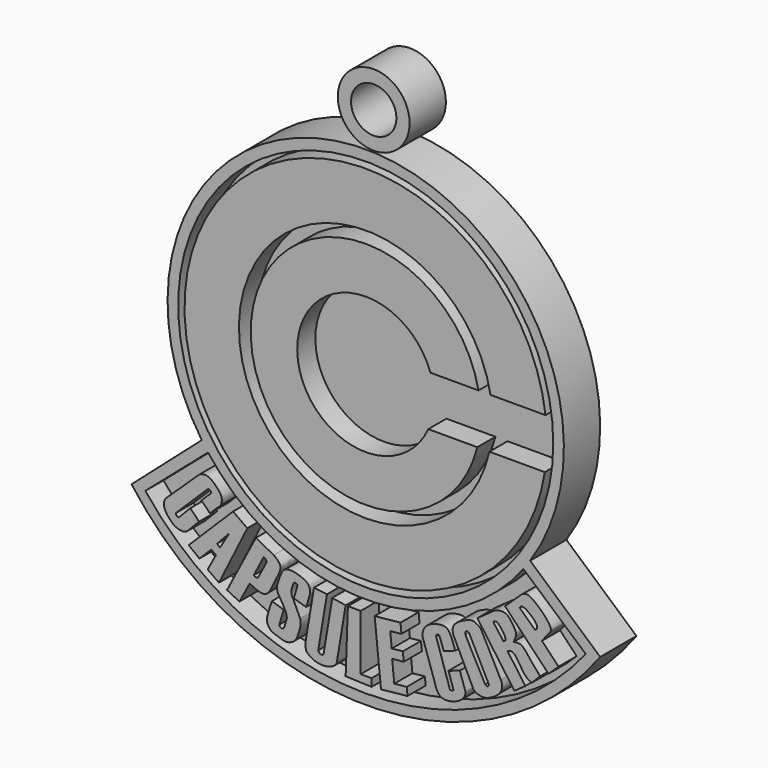
from build123d import *

# Parameters (mm, degrees)
F0_R      = 52.503356938
F1_DEPTH  = 12.7
F2_DEPTH  = 12.7
F3_DEPTH  = 12.7
F4_DEPTH  = 12.7
F5_DEPTH  = 12.7
F6_DEPTH  = 12.7
F7_DEPTH  = 12.7
F8_DEPTH  = 12.7
F9_DEPTH  = 12.7
F10_DEPTH = 12.7
F11_DEPTH = 12.7
F12_DEPTH = 12.7
F13_DEPTH = 6.35
F14_DEPTH = 6.35
F15_DEPTH = 6.35
F17_DEPTH = 6.35
F18_R     = 10.0525320169
F18_R_2   = 6.3473364892
F19_DEPTH = 12.7


with BuildPart() as f1:
    # F0 (on Front) → F1 (new body)
    with BuildSketch(Plane.XZ):
        with BuildLine():
            Line((60.5999405823, -41.43121412), (40.9883677357, -24.0908212584))
            ThreePointArc((40.9883677357, -24.0908212584), (-5.1478357773, 62.3429549862), (-50.9438924463, -24.2715250046))
            Line((-50.9438924463, -24.2715250046), (-70.5983656979, -41.5386197523))
            ThreePointArc((-70.5983656979, -41.5386197523), (-4.9720826963, -74.6246303532), (60.5999405823, -41.43121412))
        make_face()
        with BuildLine():
            Line((-66.734063861, -41.905019687), (-49.1712145373, -26.736498157))
            ThreePointArc((-49.1712145373, -26.736498157), (-5.0426226132, -48.6008861319), (39.0889828621, -26.7425814195))
            Line((39.0889828621, -26.7425814195), (56.5566623342, -42.0309924074))
            ThreePointArc((56.5566623342, -42.0309924074), (-5.1191574652, -71.7762762421), (-66.734063861, -41.905019687))
        make_face(mode=Mode.SUBTRACT)
        with Locations((-5.0387992524, 6.8710879423)):
            Circle(F0_R, mode=Mode.SUBTRACT)
    extrude(amount=F1_DEPTH)


with BuildPart() as f2:
    # F0 (on Front) → F2 (new body)
    with BuildSketch(Plane.XZ):
        with BuildLine():
            Line((29.8900014684, 13.1683601066), (45.2995682776, 13.1683601066))
            ThreePointArc((45.2995682776, 13.1683601066), (-55.7638517812, 7.6299873016), (45.0886533141, -0.9292570176))
            Line((45.0886533141, -0.9292570176), (29.5853451416, -0.9292570176))
            ThreePointArc((29.5853451416, -0.9292570176), (-40.5224397882, 7.6379065822), (29.8900014684, 13.1683601066))
        make_face()
    extrude(amount=F2_DEPTH)


with BuildPart() as f3:
    # F0 (on Front) → F3 (new body)
    with BuildSketch(Plane.XZ):
        with BuildLine():
            ThreePointArc((12.4785372816, -0.9292570176), (-24.1973281339, 7.6793155292), (13.0732636899, 13.1683601066))
            Line((13.0732636899, 13.1683601066), (26.5351332798, 13.1683601066))
            ThreePointArc((26.5351332798, 13.1683601066), (-37.2253739751, 7.6413215952), (26.1977733952, -0.9292570176))
            Line((26.1977733952, -0.9292570176), (12.4785372816, -0.9292570176))
        make_face()
    extrude(amount=F3_DEPTH)


with BuildPart() as f3b:
    # F0 (on Front) → F3, piece 2 (new body)
    with BuildSketch(Plane.XZ):
        with BuildLine():
            Line((-48.6598946154, -41.5569245815), (-45.7314327359, -38.7076102197))
            add(Edge.make_bspline(
                [(-45.7314327359, -38.7076102197), (-45.5182782316, -38.3120082619), (-45.2493718827, -37.4668796013), (-45.3800152306, -36.1746325624), (-46.4852057666, -34.7051412126), (-47.9762372557, -33.2938342389), (-49.0977703681, -32.6046361502), (-50.4863207535, -32.4418212905), (-51.5891727531, -32.889454716), (-51.6675077379, -33.0089814961)],
                knots=[0, 0, 0, 0, 0.1309702609, 0.2573921233, 0.4120143837, 0.5768783375, 0.7062820353, 0.8445564685, 0.9677742674, 0.9677742674, 0.9677742674, 0.9677742674], degree=3))
            Line((-51.6675077379, -33.0089814961), (-60.7157088816, -41.6073575616))
            add(Edge.make_bspline(
                [(-60.7157088816, -41.6073575616), (-60.9724898646, -41.899599987), (-61.5177114103, -42.520650489), (-61.5965015573, -44.1305906441), (-60.7583461715, -45.6946842576), (-59.7998466196, -46.8042676371), (-58.5532261802, -48.045258872), (-56.2489889811, -48.6719660133), (-55.5259696379, -48.2643659842), (-55.0567097962, -48.0595976114)],
                knots=[0, 0, 0, 0, 0.1228178596, 0.2624150968, 0.4125308313, 0.5497962329, 0.7010782632, 0.8693855299, 1, 1, 1, 1], degree=3))
            Line((-55.0567097962, -48.0595976114), (-51.6791455448, -44.5893704891))
            Line((-51.6791455448, -44.5893704891), (-54.1442027534, -42.0839010235))
            Line((-54.1442027534, -42.0839010235), (-57.3124613844, -45.3390802631))
            add(Edge.make_bspline(
                [(-57.3124613844, -45.3390802631), (-57.6732350377, -45.5940075315), (-58.3938894889, -44.8760026589), (-58.1320589799, -44.5277169056)],
                knots=[0, 0, 0, 0, 1.1532782477, 1.1532782477, 1.1532782477, 1.1532782477], degree=3))
            Line((-58.1320589799, -44.5277169056), (-49.2998375437, -35.8386252598))
            add(Edge.make_bspline(
                [(-48.4176556757, -36.6089562428), (-48.0805915421, -35.8402226582), (-49.1739178016, -35.5147337638), (-49.2998375437, -35.8386252598)],
                knots=[0, 0, 0, 0, 1.1711766184, 1.1711766184, 1.1711766184, 1.1711766184], degree=3))
            Line((-48.4176556757, -36.6089562428), (-51.0151487078, -39.1362468498))
            Line((-51.0151487078, -39.1362468498), (-48.6598946154, -41.5569245815))
        make_face()
    extrude(amount=F3_DEPTH)


with BuildPart() as f4:
    # F0 (on Front) → F4 (new body)
    with BuildSketch(Plane.XZ):
        with BuildLine():
            Line((-35.7905649427, -43.4279856762), (-43.8651628792, -58.9153282344))
            Line((-43.8651628792, -58.9153282344), (-40.3925254941, -60.6311187148))
            Line((-40.3925254941, -60.6311187148), (-37.5058762729, -55.227637291))
            add(Edge.make_bspline(
                [(-31.6514000297, -54.8285953701), (-32.0236780299, -55.43014729), (-32.8165623045, -56.6676508711), (-35.1249112591, -56.497323709), (-36.7467890913, -55.5591372638), (-37.5058762729, -55.227637291)],
                knots=[0, 0, 0, 0, 0.3149504858, 0.6330767902, 1, 1, 1, 1], degree=3))
            Line((-31.6514000297, -54.8285953701), (-29.5922830701, -50.6417267025))
            add(Edge.make_bspline(
                [(-30.7893350019, -46.0354647068), (-30.4348577002, -46.3079643887), (-29.6930274584, -46.8782364594), (-28.5146698632, -48.3895821803), (-29.2125097058, -49.8480240116), (-29.5922830701, -50.6417267025)],
                knots=[0, 0, 0, 0, 0.2943351831, 0.6159681847, 1, 1, 1, 1], degree=3))
            Line((-30.7893350019, -46.0354647068), (-35.7905649427, -43.4279856762))
        make_face()
        with BuildLine():
            Line((-36.3851310301, -52.8450786716), (-33.6069231472, -47.4374296016))
            add(Edge.make_bspline(
                [(-33.6069231472, -47.4374296016), (-33.1515918708, -47.3266571752), (-32.4997992591, -48.5392787356), (-32.9192341419, -48.7304510068)],
                knots=[0, 0, 0, 0, 1.4645205776, 1.4645205776, 1.4645205776, 1.4645205776], degree=3))
            Line((-32.9192341419, -48.7304510068), (-35.0825511138, -52.8450786716))
            add(Edge.make_bspline(
                [(-36.3851310301, -52.8450786716), (-36.2197856891, -53.232456753), (-35.2019439326, -53.2491645527), (-35.0825511138, -52.8450786716)],
                knots=[0, 0, 0, 0, 1.3025799163, 1.3025799163, 1.3025799163, 1.3025799163], degree=3))
        make_face(mode=Mode.SUBTRACT)
    extrude(amount=F4_DEPTH)


with BuildPart() as f5:
    # F0 (on Front) → F5 (new body)
    with BuildSketch(Plane.XZ):
        with BuildLine():
            Line((-21.7090044171, -55.9085980058), (-20.6131432205, -52.3221418262))
            add(Edge.make_bspline(
                [(-20.6131432205, -52.3221418262), (-20.6079072552, -51.7476070746), (-20.5971644831, -50.5688185516), (-22.0155334156, -49.2318301452), (-24.3742511338, -48.5194838512), (-25.471617298, -48.2297558762), (-27.5820620829, -48.2491459647), (-28.1970818932, -49.0909409549), (-28.4834224731, -49.4828633964)],
                knots=[0, 0, 0, 0, 0.1634091261, 0.3352709333, 0.5318450668, 0.6721761242, 0.847371943, 1, 1, 1, 1], degree=3))
            add(Edge.make_bspline(
                [(-27.1350331604, -60.5028010905), (-27.1263486387, -60.3436291004), (-27.106302174, -59.9762127081), (-27.3137406178, -59.1471150044), (-27.9921235909, -57.7897487675), (-28.5100450607, -56.8501701743), (-29.8056682275, -54.9011372505), (-30.0707976039, -53.1380117258), (-29.0816603614, -50.8603879497), (-28.4834224731, -49.4828633964)],
                knots=[0, 0, 0, 0, 0.0810166995, 0.1870106885, 0.3266158752, 0.4499456185, 0.6209242835, 0.7707320618, 1, 1, 1, 1], degree=3))
            Line((-27.1350331604, -60.5028010905), (-27.8777554631, -62.9770904779))
            add(Edge.make_bspline(
                [(-29.2328900052, -62.6900076149), (-29.1919310071, -62.8653883234), (-29.103042787, -63.2459952653), (-28.2403010049, -63.4809657885), (-27.9933408563, -63.1377340914), (-27.8777554631, -62.9770904779)],
                knots=[0, 0, 0, 0, 0.3125280348, 0.678240729, 1, 1, 1, 1], degree=3))
            Line((-29.2328900052, -62.6900076149), (-27.9742274433, -58.5984662175))
            Line((-27.9742274433, -58.5984662175), (-31.316768378, -57.5702153146))
            add(Edge.make_bspline(
                [(-23.3949050307, -59.2809170485), (-23.3258460353, -59.5692623677), (-23.1721370562, -60.2110508033), (-23.3411815121, -61.5193114693), (-24.2523666942, -64.550394921), (-25.2553337887, -65.7345547603), (-27.4789065412, -66.5898825413), (-29.5901371272, -65.6907769236), (-31.791623515, -65.1015546859), (-32.6045623513, -63.3863271888), (-32.8384480202, -62.5907268755), (-32.2969651033, -60.5429927767), (-31.6700524798, -58.6416686142), (-31.316768378, -57.5702153146)],
                knots=[0, 0, 0, 0, 0.0630556367, 0.1403469235, 0.2579917973, 0.3416131431, 0.4389772999, 0.539764492, 0.6393785374, 0.7263973719, 0.7857444676, 0.8792605692, 1, 1, 1, 1], degree=3))
            Line((-23.3949050307, -59.2809170485), (-25.7491264492, -54.2372949421))
            add(Edge.make_bspline(
                [(-25.1191128045, -51.0242320597), (-25.2335905462, -51.2480171499), (-25.5024154973, -51.7420531632), (-25.8648348591, -52.9945998765), (-25.9191114455, -53.7254922092), (-25.7491264492, -54.2372949421)],
                knots=[0, 0, 0, 0, 0.284531732, 0.638961937, 1, 1, 1, 1], degree=3))
            add(Edge.make_bspline(
                [(-24.110064901, -51.3827907816), (-23.8793142347, -51.1023734549), (-24.9038865379, -50.7157896387), (-25.1191128045, -51.0242320597)],
                knots=[0, 0, 0, 0, 1.0708604151, 1.0708604151, 1.0708604151, 1.0708604151], degree=3))
            Line((-24.110064901, -51.3827907816), (-25.1698327074, -54.8511230943))
            Line((-25.1698327074, -54.8511230943), (-21.7090044171, -55.9085980058))
        make_face()
    extrude(amount=F5_DEPTH)


with BuildPart() as f6:
    # F0 (on Front) → F6 (new body)
    with BuildSketch(Plane.XZ):
        with BuildLine():
            Line((-15.8909317106, -50.8602447808), (-19.5206608623, -50.4013225436))
            Line((-19.5206608623, -50.4013225436), (-21.7863861471, -63.8760158343))
            add(Edge.make_bspline(
                [(-21.7863861471, -63.8760158343), (-21.8722404135, -64.4180690707), (-22.024538931, -66.5538071838), (-21.1441839869, -67.2765931183), (-19.7695910586, -68.4255079964), (-16.7682985293, -68.9408927461), (-14.8007030267, -68.3827705054), (-13.3168361159, -67.5932670309), (-13.1251226314, -66.6933559784)],
                knots=[0, 0, 0, 0, 0.1841486688, 0.3049456284, 0.4569221175, 0.6560433432, 0.824441957, 1, 1, 1, 1], degree=3))
            Line((-13.1251226314, -66.6933559784), (-10.6554275165, -51.8888629564))
            Line((-10.6554275165, -51.8888629564), (-14.3976211548, -51.2645877898))
            Line((-14.3976211548, -51.2645877898), (-16.8232139474, -65.8047111255))
            add(Edge.make_bspline(
                [(-18.3312781155, -65.4658600688), (-18.19642433, -65.7554847573), (-17.9358505061, -66.3160172149), (-16.9594616956, -66.2364035354), (-16.8642673661, -65.9316633356), (-16.8232139474, -65.8047111255)],
                knots=[0, 0, 0, 0, 0.3833667687, 0.7426132029, 1, 1, 1, 1], degree=3))
            Line((-18.3312781155, -65.4658600688), (-15.8909317106, -50.8602447808))
        make_face()
    extrude(amount=F6_DEPTH)


with BuildPart() as f7:
    # F0 (on Front) → F7 (new body)
    with BuildSketch(Plane.XZ):
        Polygon((-6.4464188181, -51.8888629564), (-10.0288884714, -51.8888629564), (-10.6554275165, -69.3666040897), (-3.3928391875, -69.6269521016), (-3.3928391875, -67.4776732922), (-6.4464188181, -67.4776732922), align=None)
    extrude(amount=F7_DEPTH)


with BuildPart() as f8:
    # F0 (on Front) → F8 (new body)
    with BuildSketch(Plane.XZ):
        Polygon((4.6931594454, -51.1682759951), (-2.5315931998, -51.8888629564), (-0.7604146958, -69.3666040897), (6.6582209685, -68.6148062506), (6.4359926059, -66.4218879279), (2.9564236147, -66.7745043074), (2.3542441099, -60.8322813873), (5.6072348143, -60.5026262468), (5.3557697075, -58.0212038324), (2.2519339653, -58.3357437437), (1.8278460123, -54.150903286), (4.9632171548, -53.8331676056), align=None)
    extrude(amount=F8_DEPTH)


with BuildPart() as f9:
    # F0 (on Front) → F9 (new body)
    with BuildSketch(Plane.XZ):
        with BuildLine():
            add(Edge.make_bspline(
                [(18.9994945637, -50.2280890942), (18.6799423077, -49.6720812877), (17.9839721219, -47.9153454155), (15.5283389484, -47.9908181199), (13.2084911742, -48.5395884399), (11.1721059213, -50.1593698068), (10.9166938152, -51.4665496517), (10.808869265, -52.4156503379)],
                knots=[0, 0, 0, 0, 0.198066192, 0.3920095918, 0.5986761979, 0.8008948551, 1, 1, 1, 1], degree=3))
            Line((10.808869265, -52.4156503379), (14.7927897051, -64.2936378717))
            add(Edge.make_bspline(
                [(14.7927897051, -64.2936378717), (15.0899936911, -64.8701922663), (15.7655283498, -66.177771653), (19.0770985043, -66.1740142357), (21.6106688936, -64.847905401), (22.4943816534, -63.8702757337), (22.9446161538, -62.9170835018), (22.8733083426, -62.2400525896)],
                knots=[0, 0, 0, 0, 0.1908674274, 0.4325004574, 0.6664622889, 0.8219891966, 1, 1, 1, 1], degree=3))
            Line((22.8733083426, -62.2400525896), (21.3132846442, -57.5888698362))
            Line((21.3132846442, -57.5888698362), (18.1280545109, -58.6572076669))
            Line((18.1280545109, -58.6572076669), (19.4561207772, -62.6168134857))
            add(Edge.make_bspline(
                [(18.4078272432, -62.7443343401), (18.4450729584, -62.935101339), (18.5286198681, -63.3630161518), (19.6353230605, -63.1679678292), (19.5097194535, -62.7816615149), (19.4561207772, -62.6168134857)],
                knots=[0, 0, 0, 0, 0.3156085813, 0.7079504723, 1, 1, 1, 1], degree=3))
            Line((18.4078272432, -62.7443343401), (14.6461196954, -51.2373600566))
            add(Edge.make_bspline(
                [(14.6461196954, -51.2373600566), (14.7293895586, -51.086126411), (14.6320509529, -50.8143911973), (15.4240187555, -50.5091431299), (15.6631289871, -50.9987509505)],
                knots=[0, 0, 0, 0, 0.4046178899, 1, 1, 1, 1], degree=3))
            Line((15.6631289871, -50.9987509505), (16.8340329281, -54.2359549408))
            Line((16.8340329281, -54.2359549408), (20.0309064239, -53.0796386302))
            Line((20.0309064239, -53.0796386302), (18.9994945637, -50.2280890942))
        make_face()
    extrude(amount=F9_DEPTH)


with BuildPart() as f10:
    # F0 (on Front) → F10 (new body)
    with BuildSketch(Plane.XZ):
        with BuildLine():
            add(Edge.make_bspline(
                [(19.4561207772, -49.2846556008), (19.3301405067, -48.6027238657), (19.062446819, -47.153696806), (21.2148726553, -45.3559923775), (23.1411757455, -44.5380073116), (25.2953422996, -43.7623716712), (26.5461218351, -44.8196120226), (27.1935593337, -45.3668683767)],
                knots=[0, 0, 0, 0, 0.1897131175, 0.4031187093, 0.6030762629, 0.7945414806, 1, 1, 1, 1], degree=3))
            Line((19.4561207772, -49.2846556008), (24.769956246, -60.2087639272))
            add(Edge.make_bspline(
                [(32.7784381807, -56.0951158404), (32.9740176032, -56.5730121352), (33.3866654974, -57.5813129945), (32.6808641252, -59.5591310581), (30.8422824943, -60.9912563242), (28.0480388923, -62.4207744035), (25.268879115, -61.4798178627), (24.9145836396, -60.5772161053), (24.769956246, -60.2087639272)],
                knots=[0, 0, 0, 0, 0.1438174477, 0.3034366612, 0.4802332141, 0.6839600798, 0.8709889539, 1, 1, 1, 1], degree=3))
            Line((32.7784381807, -56.0951158404), (27.1935593337, -45.3668683767))
        make_face()
        with BuildLine():
            Line((28.4167788923, -58.7202347815), (22.8581652045, -48.2247881591))
            add(Edge.make_bspline(
                [(22.8581652045, -48.2247881591), (22.8223673951, -47.9501094979), (22.7566103258, -47.4455517027), (23.3657432255, -47.1149470548), (23.7288141447, -47.3576840093), (23.9194259048, -47.4851205945)],
                knots=[0, 0, 0, 0, 0.3620703473, 0.6650877625, 1, 1, 1, 1], degree=3))
            Line((23.9194259048, -47.4851205945), (29.427410305, -58.3265042703))
            add(Edge.make_bspline(
                [(28.4167788923, -58.7202347815), (28.6049248514, -58.835919695), (28.956613339, -59.0521616618), (29.3577124172, -58.7425185357), (29.4143124152, -58.4557144667), (29.427410305, -58.3265042703)],
                knots=[0, 0, 0, 0, 0.3518274987, 0.6576472941, 0.8878656751, 0.8878656751, 0.8878656751, 0.8878656751], degree=3))
        make_face(mode=Mode.SUBTRACT)
    extrude(amount=F10_DEPTH)


with BuildPart() as f11:
    # F0 (on Front) → F11 (new body)
    with BuildSketch(Plane.XZ):
        with BuildLine():
            Line((31.1319642104, -39.5357470043), (26.2111201882, -43.0550687015))
            Line((26.2111201882, -43.0550687015), (36.6013236344, -57.5830303133))
            Line((36.6013236344, -57.5830303133), (39.6597143286, -55.3957102762))
            Line((39.6597143286, -55.3957102762), (34.6292572644, -48.3619416405))
            add(Edge.make_bspline(
                [(34.6292572644, -48.3619416405), (35.1908941844, -48.1846970636), (36.7145916895, -47.7038399296), (38.9994597672, -52.7466035797), (40.6537200458, -53.6896768075), (41.3587838411, -54.0916249156)],
                knots=[0, 0, 0, 0, 0.2509193198, 0.6807336341, 1, 1, 1, 1], degree=3))
            Line((41.3587838411, -54.0916249156), (43.7880381942, -51.6623705626))
            add(Edge.make_bspline(
                [(36.3184735179, -45.6343404949), (37.0531063229, -45.500290122), (38.6714540888, -45.2049859645), (40.6082389573, -48.0233618499), (42.6435253405, -50.3525733282), (43.7880381942, -51.6623705626)],
                knots=[0, 0, 0, 0, 0.2667714067, 0.5876798682, 1, 1, 1, 1], degree=3))
            add(Edge.make_bspline(
                [(31.1319642104, -39.5357470043), (31.6138243414, -39.3806187771), (32.6344030877, -39.0520575176), (34.7783094279, -39.180430849), (36.5035566495, -41.9497156801), (37.3348599425, -43.4628266913), (36.6750264762, -44.8725636234), (36.3184735179, -45.6343404949)],
                knots=[0, 0, 0, 0, 0.1733585479, 0.3671730405, 0.6122996696, 0.790499108, 1, 1, 1, 1], degree=3))
        make_face()
        with BuildLine():
            Line((33.5294343531, -46.3980063796), (30.638249591, -42.5129719079))
            add(Edge.make_bspline(
                [(30.638249591, -42.5129719079), (30.8023497924, -42.4269158121), (31.14376818, -42.2478719523), (31.933950553, -42.0606967194), (34.0609483465, -44.8460710728), (34.2253517291, -46.0177474804), (33.7435080169, -46.2810335628), (33.5294343531, -46.3980063796)],
                knots=[0, 0, 0, 0, 0.141873653, 0.295174981, 0.6466272225, 0.8430034402, 1, 1, 1, 1], degree=3))
        make_face(mode=Mode.SUBTRACT)
    extrude(amount=F11_DEPTH)


with BuildPart() as f12:
    # F0 (on Front) → F12 (new body)
    with BuildSketch(Plane.XZ):
        with BuildLine():
            Line((38.2046095484, -33.5418305915), (33.9698009193, -37.5929363072))
            Line((33.9698009193, -37.5929363072), (46.1253777407, -50.2997243369))
            Line((46.1253777407, -50.2997243369), (48.9377792909, -47.6093227173))
            Line((48.9377792909, -47.6093227173), (44.2941300571, -42.7551008761))
            add(Edge.make_bspline(
                [(38.2046095484, -33.5418305915), (39.5211456524, -32.2438068721), (41.9799633592, -33.0469898683), (48.3562013242, -39.4570155362), (45.9912384359, -40.3155085575), (44.2941300571, -42.7551008761)],
                knots=[0, 0, 0, 0, 0.2852807287, 0.6810040485, 1, 1, 1, 1], degree=3))
        make_face()
        with BuildLine():
            Line((42.3836968839, -40.7059788704), (38.0469188094, -36.6402491927))
            add(Edge.make_bspline(
                [(38.0469188094, -36.6402491927), (38.264616308, -36.334021443), (38.9641611219, -35.3499952805), (43.8429831332, -39.5278159777), (42.7442658386, -40.4148715137), (42.3836968839, -40.7059788704)],
                knots=[0, 0, 0, 0, 0.2328523565, 0.7482431329, 1, 1, 1, 1], degree=3))
        make_face(mode=Mode.SUBTRACT)
    extrude(amount=F12_DEPTH)


with BuildPart() as f13:
    # F0 (on Front) → F13 (new body)
    with BuildSketch(Plane.XZ):
        with Locations((-5.0387992524, 6.8710879423)):
            Circle(F0_R)
        with BuildLine():
            Line((26.5351332798, 13.1683601066), (13.0732636899, 13.1683601066))
            ThreePointArc((13.0732636899, 13.1683601066), (-24.1973281339, 7.6793155292), (12.4785372816, -0.9292570176))
            Line((12.4785372816, -0.9292570176), (26.1977733952, -0.9292570176))
            ThreePointArc((26.1977733952, -0.9292570176), (-37.2253739751, 7.6413215952), (26.5351332798, 13.1683601066))
        make_face(mode=Mode.SUBTRACT)
        with BuildLine():
            ThreePointArc((45.0886533141, -0.9292570176), (-55.7638517812, 7.6299873016), (45.2995682776, 13.1683601066))
            Line((45.2995682776, 13.1683601066), (29.8900014684, 13.1683601066))
            ThreePointArc((29.8900014684, 13.1683601066), (-40.5224397882, 7.6379065822), (29.5853451416, -0.9292570176))
            Line((29.5853451416, -0.9292570176), (45.0886533141, -0.9292570176))
        make_face(mode=Mode.SUBTRACT)
    extrude(amount=F13_DEPTH)


with BuildPart() as f14:
    # F0 (on Front) → F14 (new body)
    with BuildSketch(Plane.XZ):
        with BuildLine():
            ThreePointArc((39.0889828621, -26.7425814195), (-5.0426226132, -48.6008861319), (-49.1712145373, -26.736498157))
            Line((-49.1712145373, -26.736498157), (-66.734063861, -41.905019687))
            ThreePointArc((-66.734063861, -41.905019687), (-5.1191574652, -71.7762762421), (56.5566623342, -42.0309924074))
            Line((56.5566623342, -42.0309924074), (39.0889828621, -26.7425814195))
        make_face()
        with BuildLine():
            add(Edge.make_bspline(
                [(-45.7314327359, -38.7076102197), (-45.5182782316, -38.3120082619), (-45.2493718827, -37.4668796013), (-45.3800152306, -36.1746325624), (-46.4852057666, -34.7051412126), (-47.9762372557, -33.2938342389), (-49.0977703681, -32.6046361502), (-50.4863207535, -32.4418212905), (-51.5891727531, -32.889454716), (-51.6675077379, -33.0089814961)],
                knots=[0, 0, 0, 0, 0.1309702609, 0.2573921233, 0.4120143837, 0.5768783375, 0.7062820353, 0.8445564685, 0.9677742674, 0.9677742674, 0.9677742674, 0.9677742674], degree=3))
            Line((-45.7314327359, -38.7076102197), (-48.6598946154, -41.5569245815))
            Line((-48.6598946154, -41.5569245815), (-51.0151487078, -39.1362468498))
            Line((-51.0151487078, -39.1362468498), (-48.4176556757, -36.6089562428))
            add(Edge.make_bspline(
                [(-48.4176556757, -36.6089562428), (-48.0805915421, -35.8402226582), (-49.1739178016, -35.5147337638), (-49.2998375437, -35.8386252598)],
                knots=[0, 0, 0, 0, 1.1711766184, 1.1711766184, 1.1711766184, 1.1711766184], degree=3))
            Line((-49.2998375437, -35.8386252598), (-58.1320589799, -44.5277169056))
            add(Edge.make_bspline(
                [(-57.3124613844, -45.3390802631), (-57.6732350377, -45.5940075315), (-58.3938894889, -44.8760026589), (-58.1320589799, -44.5277169056)],
                knots=[0, 0, 0, 0, 1.1532782477, 1.1532782477, 1.1532782477, 1.1532782477], degree=3))
            Line((-57.3124613844, -45.3390802631), (-54.1442027534, -42.0839010235))
            Line((-54.1442027534, -42.0839010235), (-51.6791455448, -44.5893704891))
            Line((-51.6791455448, -44.5893704891), (-55.0567097962, -48.0595976114))
            add(Edge.make_bspline(
                [(-60.7157088816, -41.6073575616), (-60.9724898646, -41.899599987), (-61.5177114103, -42.520650489), (-61.5965015573, -44.1305906441), (-60.7583461715, -45.6946842576), (-59.7998466196, -46.8042676371), (-58.5532261802, -48.045258872), (-56.2489889811, -48.6719660133), (-55.5259696379, -48.2643659842), (-55.0567097962, -48.0595976114)],
                knots=[0, 0, 0, 0, 0.1228178596, 0.2624150968, 0.4125308313, 0.5497962329, 0.7010782632, 0.8693855299, 1, 1, 1, 1], degree=3))
            Line((-60.7157088816, -41.6073575616), (-51.6675077379, -33.0089814961))
        make_face(mode=Mode.SUBTRACT)
        Polygon((-45.8363369107, -49.0893237293), (-46.6673858464, -48.416569829), (-43.2640388608, -44.7757802904), align=None, mode=Mode.SUBTRACT)
        with BuildLine():
            Line((-21.7863861471, -63.8760158343), (-19.5206608623, -50.4013225436))
            Line((-19.5206608623, -50.4013225436), (-15.8909317106, -50.8602447808))
            Line((-15.8909317106, -50.8602447808), (-18.3312781155, -65.4658600688))
            add(Edge.make_bspline(
                [(-18.3312781155, -65.4658600688), (-18.19642433, -65.7554847573), (-17.9358505061, -66.3160172149), (-16.9594616956, -66.2364035354), (-16.8642673661, -65.9316633356), (-16.8232139474, -65.8047111255)],
                knots=[0, 0, 0, 0, 0.3833667687, 0.7426132029, 1, 1, 1, 1], degree=3))
            Line((-16.8232139474, -65.8047111255), (-14.3976211548, -51.2645877898))
            Line((-14.3976211548, -51.2645877898), (-10.6554275165, -51.8888629564))
            Line((-10.6554275165, -51.8888629564), (-13.1251226314, -66.6933559784))
            add(Edge.make_bspline(
                [(-21.7863861471, -63.8760158343), (-21.8722404135, -64.4180690707), (-22.024538931, -66.5538071838), (-21.1441839869, -67.2765931183), (-19.7695910586, -68.4255079964), (-16.7682985293, -68.9408927461), (-14.8007030267, -68.3827705054), (-13.3168361159, -67.5932670309), (-13.1251226314, -66.6933559784)],
                knots=[0, 0, 0, 0, 0.1841486688, 0.3049456284, 0.4569221175, 0.6560433432, 0.824441957, 1, 1, 1, 1], degree=3))
        make_face(mode=Mode.SUBTRACT)
        Polygon((-10.6554275165, -69.3666040897), (-10.0288884714, -51.8888629564), (-6.4464188181, -51.8888629564), (-6.4464188181, -67.4776732922), (-3.3928391875, -67.4776732922), (-3.3928391875, -69.6269521016), align=None, mode=Mode.SUBTRACT)
        with BuildLine():
            Line((-40.3925254941, -60.6311187148), (-43.8651628792, -58.9153282344))
            Line((-43.8651628792, -58.9153282344), (-35.7905649427, -43.4279856762))
            Line((-35.7905649427, -43.4279856762), (-30.7893350019, -46.0354647068))
            add(Edge.make_bspline(
                [(-30.7893350019, -46.0354647068), (-30.4348577002, -46.3079643887), (-29.6930274584, -46.8782364594), (-28.5146698632, -48.3895821803), (-29.2125097058, -49.8480240116), (-29.5922830701, -50.6417267025)],
                knots=[0, 0, 0, 0, 0.2943351831, 0.6159681847, 1, 1, 1, 1], degree=3))
            Line((-29.5922830701, -50.6417267025), (-31.6514000297, -54.8285953701))
            add(Edge.make_bspline(
                [(-31.6514000297, -54.8285953701), (-32.0236780299, -55.43014729), (-32.8165623045, -56.6676508711), (-35.1249112591, -56.497323709), (-36.7467890913, -55.5591372638), (-37.5058762729, -55.227637291)],
                knots=[0, 0, 0, 0, 0.3149504858, 0.6330767902, 1, 1, 1, 1], degree=3))
            Line((-37.5058762729, -55.227637291), (-40.3925254941, -60.6311187148))
        make_face(mode=Mode.SUBTRACT)
        with BuildLine():
            add(Edge.make_bspline(
                [(-20.6131432205, -52.3221418262), (-20.6079072552, -51.7476070746), (-20.5971644831, -50.5688185516), (-22.0155334156, -49.2318301452), (-24.3742511338, -48.5194838512), (-25.471617298, -48.2297558762), (-27.5820620829, -48.2491459647), (-28.1970818932, -49.0909409549), (-28.4834224731, -49.4828633964)],
                knots=[0, 0, 0, 0, 0.1634091261, 0.3352709333, 0.5318450668, 0.6721761242, 0.847371943, 1, 1, 1, 1], degree=3))
            Line((-20.6131432205, -52.3221418262), (-21.7090044171, -55.9085980058))
            Line((-21.7090044171, -55.9085980058), (-25.1698327074, -54.8511230943))
            Line((-25.1698327074, -54.8511230943), (-24.110064901, -51.3827907816))
            add(Edge.make_bspline(
                [(-24.110064901, -51.3827907816), (-23.8793142347, -51.1023734549), (-24.9038865379, -50.7157896387), (-25.1191128045, -51.0242320597)],
                knots=[0, 0, 0, 0, 1.0708604151, 1.0708604151, 1.0708604151, 1.0708604151], degree=3))
            add(Edge.make_bspline(
                [(-25.1191128045, -51.0242320597), (-25.2335905462, -51.2480171499), (-25.5024154973, -51.7420531632), (-25.8648348591, -52.9945998765), (-25.9191114455, -53.7254922092), (-25.7491264492, -54.2372949421)],
                knots=[0, 0, 0, 0, 0.284531732, 0.638961937, 1, 1, 1, 1], degree=3))
            Line((-25.7491264492, -54.2372949421), (-23.3949050307, -59.2809170485))
            add(Edge.make_bspline(
                [(-23.3949050307, -59.2809170485), (-23.3258460353, -59.5692623677), (-23.1721370562, -60.2110508033), (-23.3411815121, -61.5193114693), (-24.2523666942, -64.550394921), (-25.2553337887, -65.7345547603), (-27.4789065412, -66.5898825413), (-29.5901371272, -65.6907769236), (-31.791623515, -65.1015546859), (-32.6045623513, -63.3863271888), (-32.8384480202, -62.5907268755), (-32.2969651033, -60.5429927767), (-31.6700524798, -58.6416686142), (-31.316768378, -57.5702153146)],
                knots=[0, 0, 0, 0, 0.0630556367, 0.1403469235, 0.2579917973, 0.3416131431, 0.4389772999, 0.539764492, 0.6393785374, 0.7263973719, 0.7857444676, 0.8792605692, 1, 1, 1, 1], degree=3))
            Line((-31.316768378, -57.5702153146), (-27.9742274433, -58.5984662175))
            Line((-27.9742274433, -58.5984662175), (-29.2328900052, -62.6900076149))
            add(Edge.make_bspline(
                [(-29.2328900052, -62.6900076149), (-29.1919310071, -62.8653883234), (-29.103042787, -63.2459952653), (-28.2403010049, -63.4809657885), (-27.9933408563, -63.1377340914), (-27.8777554631, -62.9770904779)],
                knots=[0, 0, 0, 0, 0.3125280348, 0.678240729, 1, 1, 1, 1], degree=3))
            Line((-27.8777554631, -62.9770904779), (-27.1350331604, -60.5028010905))
            add(Edge.make_bspline(
                [(-27.1350331604, -60.5028010905), (-27.1263486387, -60.3436291004), (-27.106302174, -59.9762127081), (-27.3137406178, -59.1471150044), (-27.9921235909, -57.7897487675), (-28.5100450607, -56.8501701743), (-29.8056682275, -54.9011372505), (-30.0707976039, -53.1380117258), (-29.0816603614, -50.8603879497), (-28.4834224731, -49.4828633964)],
                knots=[0, 0, 0, 0, 0.0810166995, 0.1870106885, 0.3266158752, 0.4499456185, 0.6209242835, 0.7707320618, 1, 1, 1, 1], degree=3))
        make_face(mode=Mode.SUBTRACT)
        Polygon((-0.7604146958, -69.3666040897), (-2.5315931998, -51.8888629564), (4.6931594454, -51.1682759951), (4.9632171548, -53.8331676056), (1.8278460123, -54.150903286), (2.2519339653, -58.3357437437), (5.3557697075, -58.0212038324), (5.6072348143, -60.5026262468), (2.3542441099, -60.8322813873), (2.9564236147, -66.7745043074), (6.4359926059, -66.4218879279), (6.6582209685, -68.6148062506), align=None, mode=Mode.SUBTRACT)
        with BuildLine():
            Line((14.7927897051, -64.2936378717), (10.808869265, -52.4156503379))
            add(Edge.make_bspline(
                [(18.9994945637, -50.2280890942), (18.6799423077, -49.6720812877), (17.9839721219, -47.9153454155), (15.5283389484, -47.9908181199), (13.2084911742, -48.5395884399), (11.1721059213, -50.1593698068), (10.9166938152, -51.4665496517), (10.808869265, -52.4156503379)],
                knots=[0, 0, 0, 0, 0.198066192, 0.3920095918, 0.5986761979, 0.8008948551, 1, 1, 1, 1], degree=3))
            Line((18.9994945637, -50.2280890942), (20.0309064239, -53.0796386302))
            Line((20.0309064239, -53.0796386302), (16.8340329281, -54.2359549408))
            Line((16.8340329281, -54.2359549408), (15.6631289871, -50.9987509505))
            add(Edge.make_bspline(
                [(14.6461196954, -51.2373600566), (14.7293895586, -51.086126411), (14.6320509529, -50.8143911973), (15.4240187555, -50.5091431299), (15.6631289871, -50.9987509505)],
                knots=[0, 0, 0, 0, 0.4046178899, 1, 1, 1, 1], degree=3))
            Line((14.6461196954, -51.2373600566), (18.4078272432, -62.7443343401))
            add(Edge.make_bspline(
                [(18.4078272432, -62.7443343401), (18.4450729584, -62.935101339), (18.5286198681, -63.3630161518), (19.6353230605, -63.1679678292), (19.5097194535, -62.7816615149), (19.4561207772, -62.6168134857)],
                knots=[0, 0, 0, 0, 0.3156085813, 0.7079504723, 1, 1, 1, 1], degree=3))
            Line((19.4561207772, -62.6168134857), (18.1280545109, -58.6572076669))
            Line((18.1280545109, -58.6572076669), (21.3132846442, -57.5888698362))
            Line((21.3132846442, -57.5888698362), (22.8733083426, -62.2400525896))
            add(Edge.make_bspline(
                [(14.7927897051, -64.2936378717), (15.0899936911, -64.8701922663), (15.7655283498, -66.177771653), (19.0770985043, -66.1740142357), (21.6106688936, -64.847905401), (22.4943816534, -63.8702757337), (22.9446161538, -62.9170835018), (22.8733083426, -62.2400525896)],
                knots=[0, 0, 0, 0, 0.1908674274, 0.4325004574, 0.6664622889, 0.8219891966, 1, 1, 1, 1], degree=3))
        make_face(mode=Mode.SUBTRACT)
        with BuildLine():
            Line((24.769956246, -60.2087639272), (19.4561207772, -49.2846556008))
            add(Edge.make_bspline(
                [(19.4561207772, -49.2846556008), (19.3301405067, -48.6027238657), (19.062446819, -47.153696806), (21.2148726553, -45.3559923775), (23.1411757455, -44.5380073116), (25.2953422996, -43.7623716712), (26.5461218351, -44.8196120226), (27.1935593337, -45.3668683767)],
                knots=[0, 0, 0, 0, 0.1897131175, 0.4031187093, 0.6030762629, 0.7945414806, 1, 1, 1, 1], degree=3))
            Line((27.1935593337, -45.3668683767), (32.7784381807, -56.0951158404))
            add(Edge.make_bspline(
                [(32.7784381807, -56.0951158404), (32.9740176032, -56.5730121352), (33.3866654974, -57.5813129945), (32.6808641252, -59.5591310581), (30.8422824943, -60.9912563242), (28.0480388923, -62.4207744035), (25.268879115, -61.4798178627), (24.9145836396, -60.5772161053), (24.769956246, -60.2087639272)],
                knots=[0, 0, 0, 0, 0.1438174477, 0.3034366612, 0.4802332141, 0.6839600798, 0.8709889539, 1, 1, 1, 1], degree=3))
        make_face(mode=Mode.SUBTRACT)
        with BuildLine():
            Line((36.6013236344, -57.5830303133), (26.2111201882, -43.0550687015))
            Line((26.2111201882, -43.0550687015), (31.1319642104, -39.5357470043))
            add(Edge.make_bspline(
                [(31.1319642104, -39.5357470043), (31.6138243414, -39.3806187771), (32.6344030877, -39.0520575176), (34.7783094279, -39.180430849), (36.5035566495, -41.9497156801), (37.3348599425, -43.4628266913), (36.6750264762, -44.8725636234), (36.3184735179, -45.6343404949)],
                knots=[0, 0, 0, 0, 0.1733585479, 0.3671730405, 0.6122996696, 0.790499108, 1, 1, 1, 1], degree=3))
            add(Edge.make_bspline(
                [(36.3184735179, -45.6343404949), (37.0531063229, -45.500290122), (38.6714540888, -45.2049859645), (40.6082389573, -48.0233618499), (42.6435253405, -50.3525733282), (43.7880381942, -51.6623705626)],
                knots=[0, 0, 0, 0, 0.2667714067, 0.5876798682, 1, 1, 1, 1], degree=3))
            Line((43.7880381942, -51.6623705626), (41.3587838411, -54.0916249156))
            add(Edge.make_bspline(
                [(34.6292572644, -48.3619416405), (35.1908941844, -48.1846970636), (36.7145916895, -47.7038399296), (38.9994597672, -52.7466035797), (40.6537200458, -53.6896768075), (41.3587838411, -54.0916249156)],
                knots=[0, 0, 0, 0, 0.2509193198, 0.6807336341, 1, 1, 1, 1], degree=3))
            Line((34.6292572644, -48.3619416405), (39.6597143286, -55.3957102762))
            Line((39.6597143286, -55.3957102762), (36.6013236344, -57.5830303133))
        make_face(mode=Mode.SUBTRACT)
        with BuildLine():
            Line((46.1253777407, -50.2997243369), (33.9698009193, -37.5929363072))
            Line((33.9698009193, -37.5929363072), (38.2046095484, -33.5418305915))
            add(Edge.make_bspline(
                [(38.2046095484, -33.5418305915), (39.5211456524, -32.2438068721), (41.9799633592, -33.0469898683), (48.3562013242, -39.4570155362), (45.9912384359, -40.3155085575), (44.2941300571, -42.7551008761)],
                knots=[0, 0, 0, 0, 0.2852807287, 0.6810040485, 1, 1, 1, 1], degree=3))
            Line((44.2941300571, -42.7551008761), (48.9377792909, -47.6093227173))
            Line((48.9377792909, -47.6093227173), (46.1253777407, -50.2997243369))
        make_face(mode=Mode.SUBTRACT)
    extrude(amount=F14_DEPTH)

    # F16 (on face) → F17 (join)
    with BuildSketch(Plane.XZ.offset(6.35)):
        Polygon((-38.182400167, -41.838336736), (-42.1690531075, -38.9967858791), (-54.5955300331, -51.3384416699), (-51.5843369067, -53.6710582674), (-48.2762642205, -50.3629855812), (-46.9615161419, -51.2960292399), (-49.2941327393, -55.6219704449), (-46.113293618, -57.8273534775), align=None)
        Polygon((-45.8363369107, -49.0893237293), (-46.6673858464, -48.416569829), (-43.2640388608, -44.7757802904), align=None, mode=Mode.SUBTRACT)
        Polygon((-38.182400167, -41.838336736), (-42.1690531075, -38.9967858791), (-54.5955300331, -51.3384416699), (-51.5843369067, -53.6710582674), (-48.2762642205, -50.3629855812), (-46.9615161419, -51.2960292399), (-49.2941327393, -55.6219704449), (-46.113293618, -57.8273534775), align=None)
        Polygon((-45.8363369107, -49.0893237293), (-46.6673858464, -48.416569829), (-43.2640388608, -44.7757802904), align=None, mode=Mode.SUBTRACT)
    extrude(amount=F17_DEPTH)


with BuildPart() as f15:
    # F0 (on Front) → F15 (new body)
    with BuildSketch(Plane.XZ):
        with BuildLine():
            add(Edge.make_bspline(
                [(-33.6069231472, -47.4374296016), (-33.1515918708, -47.3266571752), (-32.4997992591, -48.5392787356), (-32.9192341419, -48.7304510068)],
                knots=[0, 0, 0, 0, 1.4645205776, 1.4645205776, 1.4645205776, 1.4645205776], degree=3))
            Line((-33.6069231472, -47.4374296016), (-36.3851310301, -52.8450786716))
            add(Edge.make_bspline(
                [(-36.3851310301, -52.8450786716), (-36.2197856891, -53.232456753), (-35.2019439326, -53.2491645527), (-35.0825511138, -52.8450786716)],
                knots=[0, 0, 0, 0, 1.3025799163, 1.3025799163, 1.3025799163, 1.3025799163], degree=3))
            Line((-35.0825511138, -52.8450786716), (-32.9192341419, -48.7304510068))
        make_face()
    extrude(amount=F15_DEPTH)


with BuildPart() as f15b:
    # F0 (on Front) → F15, piece 2 (new body)
    with BuildSketch(Plane.XZ):
        with BuildLine():
            add(Edge.make_bspline(
                [(22.8581652045, -48.2247881591), (22.8223673951, -47.9501094979), (22.7566103258, -47.4455517027), (23.3657432255, -47.1149470548), (23.7288141447, -47.3576840093), (23.9194259048, -47.4851205945)],
                knots=[0, 0, 0, 0, 0.3620703473, 0.6650877625, 1, 1, 1, 1], degree=3))
            Line((22.8581652045, -48.2247881591), (28.4167788923, -58.7202347815))
            add(Edge.make_bspline(
                [(28.4167788923, -58.7202347815), (28.6049248514, -58.835919695), (28.956613339, -59.0521616618), (29.3577124172, -58.7425185357), (29.4143124152, -58.4557144667), (29.427410305, -58.3265042703)],
                knots=[0, 0, 0, 0, 0.3518274987, 0.6576472941, 0.8878656751, 0.8878656751, 0.8878656751, 0.8878656751], degree=3))
            Line((29.427410305, -58.3265042703), (23.9194259048, -47.4851205945))
        make_face()
    extrude(amount=F15_DEPTH)


with BuildPart() as f15c:
    # F0 (on Front) → F15, piece 3 (new body)
    with BuildSketch(Plane.XZ):
        with BuildLine():
            add(Edge.make_bspline(
                [(30.638249591, -42.5129719079), (30.8023497924, -42.4269158121), (31.14376818, -42.2478719523), (31.933950553, -42.0606967194), (34.0609483465, -44.8460710728), (34.2253517291, -46.0177474804), (33.7435080169, -46.2810335628), (33.5294343531, -46.3980063796)],
                knots=[0, 0, 0, 0, 0.141873653, 0.295174981, 0.6466272225, 0.8430034402, 1, 1, 1, 1], degree=3))
            Line((30.638249591, -42.5129719079), (33.5294343531, -46.3980063796))
        make_face()
    extrude(amount=F15_DEPTH)


with BuildPart() as f15d:
    # F0 (on Front) → F15, piece 4 (new body)
    with BuildSketch(Plane.XZ):
        with BuildLine():
            add(Edge.make_bspline(
                [(38.0469188094, -36.6402491927), (38.264616308, -36.334021443), (38.9641611219, -35.3499952805), (43.8429831332, -39.5278159777), (42.7442658386, -40.4148715137), (42.3836968839, -40.7059788704)],
                knots=[0, 0, 0, 0, 0.2328523565, 0.7482431329, 1, 1, 1, 1], degree=3))
            Line((38.0469188094, -36.6402491927), (42.3836968839, -40.7059788704))
        make_face()
    extrude(amount=F15_DEPTH)


with BuildPart() as f15e:
    # F0 (on Front) → F15, piece 5 (new body)
    with BuildSketch(Plane.XZ):
        Polygon((-43.2640388608, -44.7757802904), (-46.6673858464, -48.416569829), (-45.8363369107, -49.0893237293), align=None)
    extrude(amount=F15_DEPTH)


with BuildPart() as f19:
    # F18 (on Front) → F19 (new body)
    with BuildSketch(Plane.XZ):
        with Locations((-2.8054874856, 72.7690309286)):
            Circle(F18_R)
        with Locations((-2.8054874856, 72.7690309286)):
            Circle(F18_R_2, mode=Mode.SUBTRACT)
    extrude(amount=F19_DEPTH)


solid = Compound([f1.part, f2.part, f3.part, f3b.part, f4.part, f5.part, f6.part, f7.part, f8.part, f9.part, f10.part, f11.part, f12.part, f13.part, f14.part, f15.part, f15b.part, f15c.part, f15d.part, f15e.part, f19.part])
